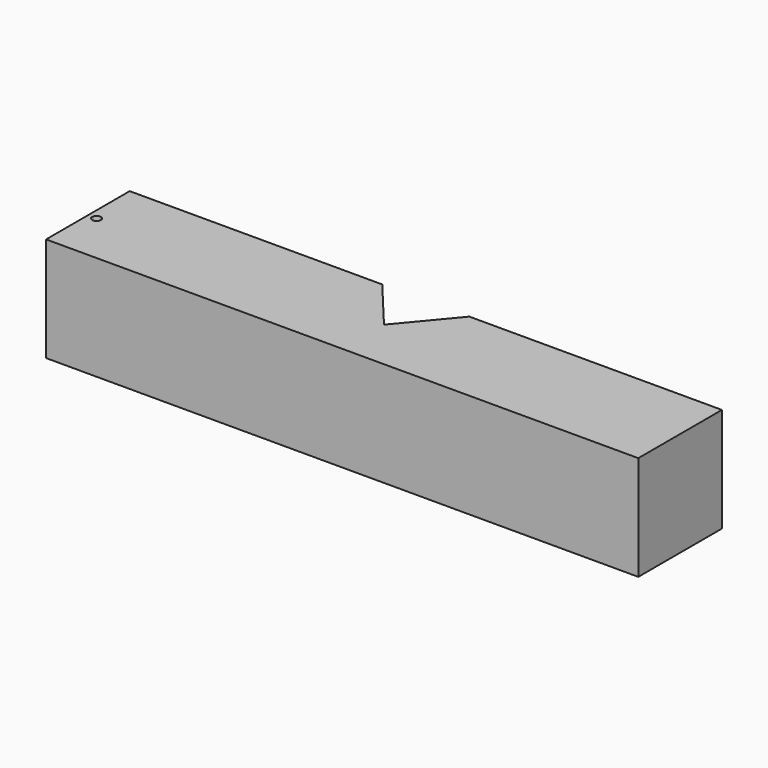
from build123d import *

# Parameters (mm, degrees)
F0_W     = 107.95
F0_H     = 19.05
F1_DEPTH = 19.05
F3_DEPTH = 25.4
F5_D     = 1.5875


with BuildPart() as f1:
    # F0 (on Top) → F1 (new body)
    with BuildSketch(Plane.XY):
        Rectangle(F0_W, F0_H)
    extrude(amount=-F1_DEPTH)

    # F2 (on face) → F3 (cut)
    with BuildSketch(Plane.XY):
        Polygon((-7.9375, 9.525), (0, 0), (7.9375, 9.525), align=None)
    extrude(amount=-F3_DEPTH, mode=Mode.SUBTRACT)

    # F5 (through all)
    with Locations(Plane.XY):
        with Locations((-52.3875, 0)):
            Hole(F5_D / 2)


solid = f1.part
